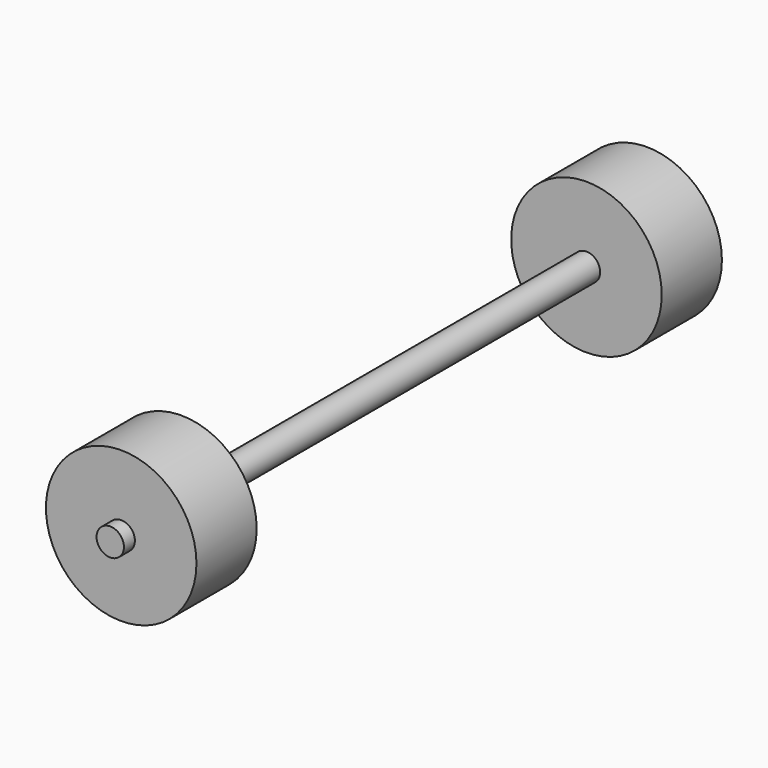
from build123d import *

# Parameters (mm, degrees)
CYLINDER002001001002_R             = 11
CYLINDER002001001002_DEPTH         = 11
CYLINDER002001001002_ROLL_ANGLE    = 90
CYLINDER002001001002001_R          = 11
CYLINDER002001001002001_DEPTH      = 11
CYLINDER002001001002001_ROLL_ANGLE = 90
CYLINDER002001002001_R             = 2
CYLINDER002001002001_DEPTH         = 100
CYLINDER002001002001_ROLL_ANGLE    = -90


with BuildPart() as wheel006:
    # Cylinder002001001002 → Cylinder002001001002 (new body)
    with BuildSketch(Plane.XY):
        Circle(CYLINDER002001001002_R)
    extrude(amount=CYLINDER002001001002_DEPTH)


with BuildPart() as wheel006_1:
    # Cylinder002001001002 roll: moved
    add(wheel006.part.rotate(Axis((0, 0, 0), (1, 0, 0)), CYLINDER002001001002_ROLL_ANGLE))


with BuildPart() as wheel006_2:
    # Cylinder002001001002 placement: moved
    add(wheel006_1.part.moved(Location((20, 78, 14))))


with BuildPart() as wheel007:
    # Cylinder002001001002001 → Cylinder002001001002001 (new body)
    with BuildSketch(Plane.XY):
        Circle(CYLINDER002001001002001_R)
    extrude(amount=CYLINDER002001001002001_DEPTH)


with BuildPart() as wheel007_1:
    # Cylinder002001001002001 roll: moved
    add(wheel007.part.rotate(Axis((0, 0, 0), (1, 0, 0)), CYLINDER002001001002001_ROLL_ANGLE))


with BuildPart() as wheel007_2:
    # Cylinder002001001002001 placement: moved
    add(wheel007_1.part.moved(Location((20, -7, 14))))


with BuildPart() as obj1:
    # Cylinder002001002001 → Cylinder002001002001 (new body)
    with BuildSketch(Plane.XY):
        Circle(CYLINDER002001002001_R)
    extrude(amount=CYLINDER002001002001_DEPTH)


with BuildPart() as obj1_1:
    # Cylinder002001002001 roll: moved
    add(obj1.part.rotate(Axis((0, 0, 0), (1, 0, 0)), CYLINDER002001002001_ROLL_ANGLE))


with BuildPart() as obj1_2:
    # Cylinder002001002001 placement: moved
    add(obj1_1.part.moved(Location((20, -20, 14))))

    # Fusion002001002002002001: union Wheel006, Wheel007
    add(wheel006_2.part)
    add(wheel007_2.part)


with BuildPart() as obj1_3:
    # Fusion002001002002002001 placement: moved
    add(obj1_2.part.moved(Location((58.5, 0, -24))))


solid = obj1_3.part
